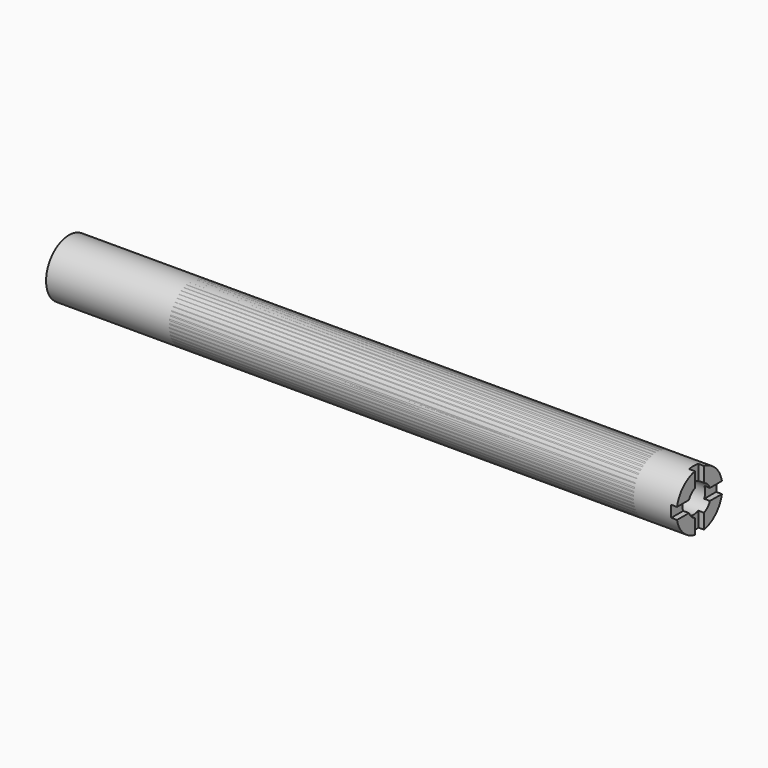
from build123d import *

# Parameters (mm, degrees)
F0_W           = 279.4
F0_H           = 12.7
F3_R           = 6.35
F4_DEPTH       = 44.45
F6_DEPTH       = 2.54
F8_DEPTH       = 2.54
F9_R           = 12.7
F10_DEPTH      = 87.249
F10_DEPTH_BACK = 120.65


with BuildPart() as f1:
    # F0 (on Front) → F1 (revolve)
    with BuildSketch(Plane.XZ):
        with Locations((0, 6.35)):
            Rectangle(F0_W, F0_H)
    revolve(axis=Axis((-13.8321295381, 0, 0), (1, 0, 0)))

    # F3 (on offset) → F4 (cut)
    with BuildSketch(Plane.YZ.offset(165.1)):
        Circle(F3_R)
    extrude(amount=-F4_DEPTH, mode=Mode.SUBTRACT)

    # F5 (on face) → F6 (cut)
    with BuildSketch(Plane.YZ.offset(139.7)):
        with BuildLine():
            Line((12.4434078933, 2.54), (-12.4434078933, 2.54))
            ThreePointArc((-12.4434078933, 2.54), (-14.9834078933, 0), (-12.4434078933, -2.54))
            Line((-12.4434078933, -2.54), (12.4434078933, -2.54))
            ThreePointArc((12.4434078933, -2.54), (14.9834078933, 0), (12.4434078933, 2.54))
        make_face()
    extrude(amount=-F6_DEPTH, mode=Mode.SUBTRACT)

    # F7 (on face) → F8 (cut)
    with BuildSketch(Plane.YZ.offset(139.7)):
        with BuildLine():
            Line((2.54, -12.4434078933), (2.54, 12.4434078933))
            ThreePointArc((2.54, 12.4434078933), (0, 14.9834078933), (-2.54, 12.4434078933))
            Line((-2.54, 12.4434078933), (-2.54, -12.4434078933))
            ThreePointArc((-2.54, -12.4434078933), (0, -14.9834078933), (2.54, -12.4434078933))
        make_face()
    extrude(amount=-F8_DEPTH, mode=Mode.SUBTRACT)


with BuildPart() as f10:
    # F9 (on Right) → F10 (new body, two sides)
    with BuildSketch(Plane.YZ) as f10_sk:
        Circle(F9_R)
    extrude(amount=-F10_DEPTH)
    extrude(f10_sk.sketch, amount=F10_DEPTH_BACK)

    # F11 (on Front) → F12 (revolve, cut)
    with BuildSketch(Plane.XZ):
        Polygon((-87.249, 12.7), (-86.613352, 10.16), (-85.7752920052, 10.16), (-85.1396440051, 12.7), align=None)
    revolve(axis=Axis((-13.8321295381, 0, 0), (1, 0, 0)), mode=Mode.SUBTRACT)


solid = Compound([f1.part, f10.part])
